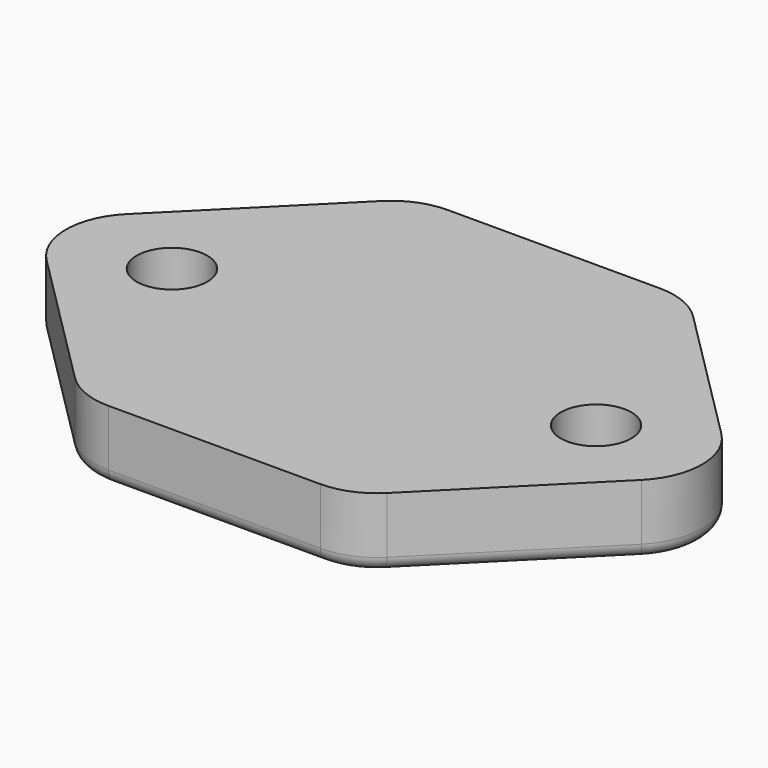
from build123d import *

# Parameters (mm, degrees)
SKETCH_R         = 2.5
PAD_DEPTH        = 5
FILLET_R         = 5
FILLET001_R      = 1
HOLE_D           = 5
HOLE_CSINK_D     = 8
HOLE_CSINK_ANGLE = 90


with BuildPart() as part:
    # Sketch → Pad (new body)
    with BuildSketch(Plane.XY):
        with BuildLine():
            Line((-21.035534, 3.535534), (-9.571068, 15))
            Line((-9.571068, 15), (9.571068, 15))
            Line((9.571068, 15), (21.035534, 3.535534))
            ThreePointArc((21.035534, -3.535534), (22.5, 0), (21.035534, 3.535534))
            Line((21.035534, -3.535534), (9.571068, -15))
            Line((9.571068, -15), (-9.571068, -15))
            Line((-9.571068, -15), (-21.035534, -3.535534))
            ThreePointArc((-21.035534, 3.535534), (-22.5, 0), (-21.035534, -3.535534))
        make_face()
        with Locations((-15, 0)):
            Circle(SKETCH_R, mode=Mode.SUBTRACT)
        with Locations((15, 0)):
            Circle(SKETCH_R, mode=Mode.SUBTRACT)
    extrude(amount=PAD_DEPTH)

    # Fillet
    fillet_edges = [part.edges().sort_by_distance(p)[0] for p in [
        (9.571068, -15, 2.5),
        (-9.571068, -15, 2.5),
        (9.571068, 15, 2.5),
        (-9.571068, 15, 2.5),
    ]]
    fillet(fillet_edges, radius=FILLET_R)

    # Fillet001
    fillet001_edges = [part.edges().sort_by_distance(p)[0] for p in [
        (-16.035534, 8.535534, 0),
        (-9.413417, 14.619398, 0),
        (-22.5, 0, 0),
        (0, 15, 0),
        (-16.035534, -8.535534, 0),
        (9.413417, 14.619398, 0),
        (-9.413417, -14.619398, 0),
        (16.035534, 8.535534, 0),
        (0, -15, 0),
        (22.5, 0, 0),
        (9.413417, -14.619398, 0),
        (16.035534, -8.535534, 0),
        (12.5, 0, 0),
        (-17.5, 0, 0),
    ]]
    fillet(fillet001_edges, radius=FILLET001_R)

    # Hole (through all)
    with Locations(Plane(origin=(0, 0, 0), x_dir=(1, 0, 0), z_dir=(0, 0, -1))):
        with Locations((-15, 0), (15, 0)):
            CounterSinkHole(HOLE_D / 2, HOLE_CSINK_D / 2, counter_sink_angle=HOLE_CSINK_ANGLE)


solid = part.part
